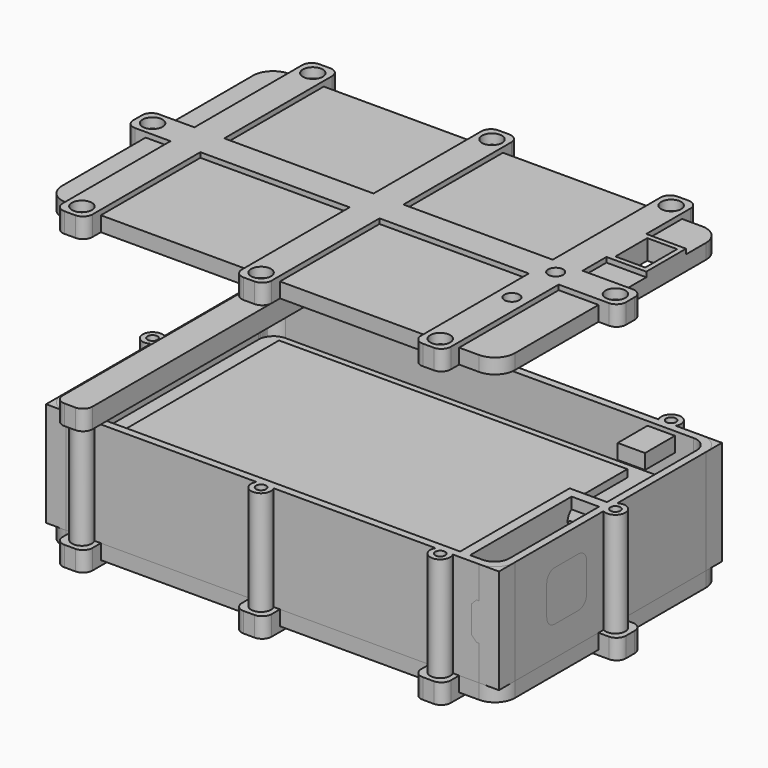
from build123d import *

# Parameters (mm, degrees)
BOX_W                     = 70
BOX_H                     = 47
BOX_DEPTH                 = 1.5
BOX003_W                  = 80
BOX003_H                  = 50
BOX003_DEPTH              = 8.5
BOX005_W                  = 88
BOX005_H                  = 53
BOX005_DEPTH              = 21
BOX004_W                  = 91
BOX004_H                  = 56
BOX004_DEPTH              = 21
FILLET002_R               = 3
FILLET001_R               = 3
FILLET003_R               = 3
BOX009_W                  = 70
BOX009_H                  = 41
BOX009_DEPTH              = 2
FILLET_R                  = 10
BOX008_W                  = 81
BOX008_H                  = 53
BOX008_DEPTH              = 2
FILLET008_R               = 2.3
FILLET004_R               = 3
FILLET005_R               = 3
FILLET006_R               = 3
FILLET007_R               = 4
FILLET010_R               = 4
BOX011_W                  = 1.5
BOX011_H                  = 10
BOX011_DEPTH              = 10
FILLET015_R               = 2
CYLINDER004_R             = 1
CYLINDER004_DEPTH         = 21
CYLINDER003_R             = 2
CYLINDER003_DEPTH         = 21
ARRAY_X_COUNT             = 3
ARRAY_X_PITCH             = 36
CYLINDER005_R             = 1
CYLINDER005_DEPTH         = 21
CYLINDER006_R             = 2
CYLINDER006_DEPTH         = 21
ARRAY001_X_COUNT          = 3
ARRAY001_X_PITCH          = 36
CYLINDER007_R             = 1
CYLINDER007_DEPTH         = 21
CYLINDER008_R             = 2
CYLINDER008_DEPTH         = 21
ARRAY002_X_COUNT          = 2
ARRAY002_X_PITCH          = 93
CYLINDER002_R             = 2
CYLINDER002_DEPTH         = 10
BOX010_W                  = 1.5
BOX010_H                  = 10
BOX010_DEPTH              = 10
FILLET014_R               = 2
BOX007_W                  = 8
BOX007_H                  = 2
BOX007_DEPTH              = 21
CYLINDER001_R             = 1.75
CYLINDER001_DEPTH         = 10
CYLINDER_R                = 2.5
CYLINDER_DEPTH            = 10
BOX002_W                  = 7.5
BOX002_H                  = 11
BOX002_DEPTH              = 2.5
CHAMFER_SIZE              = 1
BOX001_W                  = 17
BOX001_H                  = 22
BOX001_DEPTH              = 1.5
FUSION_PLACEMENT_ANGLE    = 90
FILLET011_R               = 4
FILLET012_R               = 4
FILLET013_R               = 4
FILLET009_R               = 4
BOX006_W                  = 2
BOX006_H                  = 26
BOX006_DEPTH              = 21
BOX013_W                  = 6
BOX013_H                  = 64
BOX013_DEPTH              = 4
FILLET017_R               = 1.9
CYLINDER030_R             = 2
CYLINDER030_DEPTH         = 2
CYLINDER034_R             = 1
CYLINDER034_DEPTH         = 10
CYLINDER032_R             = 2
CYLINDER032_DEPTH         = 2
CYLINDER033_R             = 1
CYLINDER033_DEPTH         = 10
CYLINDER035_R             = 2
CYLINDER035_DEPTH         = 2
CYLINDER031_R             = 1
CYLINDER031_DEPTH         = 10
CYLINDER039_R             = 2
CYLINDER039_DEPTH         = 2
CYLINDER038_R             = 1
CYLINDER038_DEPTH         = 10
CYLINDER036_R             = 2
CYLINDER036_DEPTH         = 2
CYLINDER040_R             = 1
CYLINDER040_DEPTH         = 10
CYLINDER026_R             = 2
CYLINDER026_DEPTH         = 2
CYLINDER037_R             = 1
CYLINDER037_DEPTH         = 10
CYLINDER025_R             = 2
CYLINDER025_DEPTH         = 2
CYLINDER027_R             = 1
CYLINDER027_DEPTH         = 10
CYLINDER028_R             = 2
CYLINDER028_DEPTH         = 2
CYLINDER029_R             = 1
CYLINDER029_DEPTH         = 10
BOX021_W                  = 6
BOX021_H                  = 64
BOX021_DEPTH              = 4
FILLET029_R               = 1.9
FILLET032_R               = 1.9
BOX017_W                  = 6
BOX017_H                  = 64
BOX017_DEPTH              = 4
FILLET026_R               = 1.9
FILLET031_R               = 1.9
BOX018_W                  = 6
BOX018_H                  = 64
BOX018_DEPTH              = 4
FILLET030_R               = 1.9
FILLET027_R               = 1.9
BOX020_W                  = 6
BOX020_H                  = 99
BOX020_DEPTH              = 4
FILLET034_R               = 1.9
FILLET033_R               = 1.9
FILLET033_PLACEMENT_ANGLE = 90
BOX019_W                  = 91
BOX019_H                  = 56
BOX019_DEPTH              = 3
FILLET028_R               = 4
CUT018_PLACEMENT_ANGLE    = 180
BOX023_W                  = 6
BOX023_H                  = 8
BOX023_DEPTH              = 4
CYLINDER042_R             = 1.5
CYLINDER042_DEPTH         = 10
CYLINDER041_R             = 1.5
CYLINDER041_DEPTH         = 10
CYLINDER010_R             = 2
CYLINDER010_DEPTH         = 2
CYLINDER009_R             = 1
CYLINDER009_DEPTH         = 10
CYLINDER011_R             = 2
CYLINDER011_DEPTH         = 2
CYLINDER012_R             = 1
CYLINDER012_DEPTH         = 10
CYLINDER013_R             = 2
CYLINDER013_DEPTH         = 2
CYLINDER014_R             = 1
CYLINDER014_DEPTH         = 10
CYLINDER017_R             = 2
CYLINDER017_DEPTH         = 2
CYLINDER018_R             = 1
CYLINDER018_DEPTH         = 10
CYLINDER015_R             = 2
CYLINDER015_DEPTH         = 2
CYLINDER019_R             = 1
CYLINDER019_DEPTH         = 10
CYLINDER020_R             = 2
CYLINDER020_DEPTH         = 2
CYLINDER016_R             = 1
CYLINDER016_DEPTH         = 10
CYLINDER021_R             = 2
CYLINDER021_DEPTH         = 2
CYLINDER022_R             = 1
CYLINDER022_DEPTH         = 10
CYLINDER023_R             = 2
CYLINDER023_DEPTH         = 2
CYLINDER024_R             = 1
CYLINDER024_DEPTH         = 10
BOX015_W                  = 6
BOX015_H                  = 64
BOX015_DEPTH              = 4
FILLET022_R               = 1.9
FILLET023_R               = 1.9
BOX014_W                  = 6
BOX014_H                  = 64
BOX014_DEPTH              = 4
FILLET021_R               = 1.9
FILLET020_R               = 1.9
FILLET018_R               = 1.9
FILLET019_R               = 1.9
BOX016_W                  = 6
BOX016_H                  = 99
BOX016_DEPTH              = 4
FILLET024_R               = 1.9
FILLET025_R               = 1.9
FILLET025_PLACEMENT_ANGLE = 90
BOX012_W                  = 91
BOX012_H                  = 56
BOX012_DEPTH              = 3
FILLET016_R               = 4
BOX022_W                  = 8
BOX022_H                  = 10
BOX022_DEPTH              = 4
BOX025_W                  = 3.2
BOX025_H                  = 3.2
BOX025_DEPTH              = 3
BOX024_W                  = 5.5
BOX024_H                  = 7.5
BOX024_DEPTH              = 3


with BuildPart() as box:
    # Box → Box (new body)
    with BuildSketch(Plane(origin=(4, 2, 0), x_dir=(1, 0, 0), z_dir=(0, 0, 1))):
        with Locations((35, 23.5)):
            Rectangle(BOX_W, BOX_H)
    extrude(amount=BOX_DEPTH)


with BuildPart() as box003:
    # Box003 → Box003 (new body)
    with BuildSketch(Plane(origin=(0, 1, -11), x_dir=(1, 0, 0), z_dir=(0, 0, 1))):
        with Locations((40, 25)):
            Rectangle(BOX003_W, BOX003_H)
    extrude(amount=BOX003_DEPTH)


with BuildPart() as box005:
    # Box005 → Box005 (new body)
    with BuildSketch(Plane(origin=(-0.5, -0.5, -12), x_dir=(1, 0, 0), z_dir=(0, 0, 1))):
        with Locations((44, 26.5)):
            Rectangle(BOX005_W, BOX005_H)
    extrude(amount=BOX005_DEPTH)


with BuildPart() as cut:
    # Box004 → Box004 (new body)
    with BuildSketch(Plane(origin=(-2, -2, -12), x_dir=(1, 0, 0), z_dir=(0, 0, 1))):
        with Locations((45.5, 28)):
            Rectangle(BOX004_W, BOX004_H)
    extrude(amount=BOX004_DEPTH)

    # Cut: cut Box005
    add(box005.part, mode=Mode.SUBTRACT)


with BuildPart() as fillet002:
    # Fillet002 base: copy of Cut
    add(cut.part)

    # Fillet002
    fillet002_edges = [fillet002.edges().sort_by_distance(p)[0] for p in [
        (87.5, -0.5, -1.5),
    ]]
    fillet(fillet002_edges, radius=FILLET002_R)


with BuildPart() as fillet001:
    # Fillet001 base: copy of Cut
    add(cut.part)

    # Fillet001
    fillet001_edges = [fillet001.edges().sort_by_distance(p)[0] for p in [
        (87.5, -0.5, -1.5),
    ]]
    fillet(fillet001_edges, radius=FILLET001_R)


with BuildPart() as fillet003:
    # Fillet003 base: copy of Fillet001
    add(fillet001.part)

    # Fillet003
    fillet003_edges = [fillet003.edges().sort_by_distance(p)[0] for p in [
        (87.5, 52.5, -1.5),
    ]]
    fillet(fillet003_edges, radius=FILLET003_R)


with BuildPart() as fillet_body:
    # Box009 → Box009 (new body)
    with BuildSketch(Plane(origin=(4, 5, -2), x_dir=(1, 0, 0), z_dir=(0, 0, 1))):
        with Locations((35, 20.5)):
            Rectangle(BOX009_W, BOX009_H)
    extrude(amount=BOX009_DEPTH)

    # Fillet
    fillet_edges = [fillet_body.edges().sort_by_distance(p)[0] for p in [
        (4, 5, -1),
        (4, 46, -1),
        (74, 5, -1),
        (74, 46, -1),
    ]]
    fillet(fillet_edges, radius=FILLET_R)


with BuildPart() as cut001:
    # Box008 → Box008 (new body)
    with BuildSketch(Plane(origin=(-1, 0, -2), x_dir=(1, 0, 0), z_dir=(0, 0, 1))):
        with Locations((40.5, 26.5)):
            Rectangle(BOX008_W, BOX008_H)
    extrude(amount=BOX008_DEPTH)

    # Cut001: cut Fillet body
    add(fillet_body.part, mode=Mode.SUBTRACT)


with BuildPart() as fillet008:
    # Fillet008 base: copy of Cut001
    add(cut001.part)

    # Fillet008
    fillet008_edges = [fillet008.edges().sort_by_distance(p)[0] for p in [
        (-1, 53, -1),
    ]]
    fillet(fillet008_edges, radius=FILLET008_R)


with BuildPart() as fillet007:
    # Fillet004 base: copy of Fillet001
    add(fillet001.part)

    # Fillet004
    fillet004_edges = [fillet007.edges().sort_by_distance(p)[0] for p in [
        (87.5, 52.5, -1.5),
    ]]
    fillet(fillet004_edges, radius=FILLET004_R)

    # Fillet005
    fillet005_edges = [fillet007.edges().sort_by_distance(p)[0] for p in [
        (-0.5, -0.5, -1.5),
    ]]
    fillet(fillet005_edges, radius=FILLET005_R)

    # Fillet006
    fillet006_edges = [fillet007.edges().sort_by_distance(p)[0] for p in [
        (-0.5, 52.5, -1.5),
    ]]
    fillet(fillet006_edges, radius=FILLET006_R)

    # Fillet007
    fillet007_edges = [fillet007.edges().sort_by_distance(p)[0] for p in [
        (-2, 54, -1.5),
    ]]
    fillet(fillet007_edges, radius=FILLET007_R)


with BuildPart() as fillet010:
    # Fillet010 base: copy of Fillet007
    add(fillet007.part)

    # Fillet010
    fillet010_edges = [fillet010.edges().sort_by_distance(p)[0] for p in [
        (-2, -2, -1.5),
    ]]
    fillet(fillet010_edges, radius=FILLET010_R)


with BuildPart() as fillet015:
    # Box011 → Box011 (new body)
    with BuildSketch(Plane(origin=(87.5, 10, -6), x_dir=(1, 0, 0), z_dir=(0, 0, 1))):
        with Locations((0.75, 5)):
            Rectangle(BOX011_W, BOX011_H)
    extrude(amount=BOX011_DEPTH)

    # Fillet015
    fillet015_edges = [fillet015.edges().sort_by_distance(p)[0] for p in [
        (88.25, 10, -6),
        (88.25, 10, 4),
        (88.25, 20, -6),
        (88.25, 20, 4),
    ]]
    fillet(fillet015_edges, radius=FILLET015_R)


with BuildPart() as cylinder004:
    # Cylinder004 → Cylinder004 (new body)
    with BuildSketch(Plane(origin=(6, -3, -12), x_dir=(1, 0, 0), z_dir=(0, 0, 1))):
        Circle(CYLINDER004_R)
    extrude(amount=CYLINDER004_DEPTH)


with BuildPart() as array:
    # Cylinder003 → Cylinder003 (new body)
    with BuildSketch(Plane(origin=(6, -3, -12), x_dir=(1, 0, 0), z_dir=(0, 0, 1))):
        Circle(CYLINDER003_R)
    extrude(amount=CYLINDER003_DEPTH)

    # Cut007: cut Cylinder004
    add(cylinder004.part, mode=Mode.SUBTRACT)

    # Array X: Array ×3


with BuildPart() as array_1:
    add(array.part)
    with Locations(*[(i * ARRAY_X_PITCH, 0, 0) for i in range(1, ARRAY_X_COUNT)]):
        add(array.part)


with BuildPart() as cylinder005:
    # Cylinder005 → Cylinder005 (new body)
    with BuildSketch(Plane(origin=(6, -3, -12), x_dir=(1, 0, 0), z_dir=(0, 0, 1))):
        Circle(CYLINDER005_R)
    extrude(amount=CYLINDER005_DEPTH)


with BuildPart() as array001:
    # Cylinder006 → Cylinder006 (new body)
    with BuildSketch(Plane(origin=(6, -3, -12), x_dir=(1, 0, 0), z_dir=(0, 0, 1))):
        Circle(CYLINDER006_R)
    extrude(amount=CYLINDER006_DEPTH)

    # Cut008: cut Cylinder005
    add(cylinder005.part, mode=Mode.SUBTRACT)

    # Array001 X: Array001 ×3


with BuildPart() as array001_1:
    add(array001.part)
    with Locations(*[(i * ARRAY001_X_PITCH, 0, 0) for i in range(1, ARRAY001_X_COUNT)]):
        add(array001.part)


with BuildPart() as array001_2:
    # Array001 placement: moved
    add(array001_1.part.moved(Location((0, 58, 0))))


with BuildPart() as cylinder007:
    # Cylinder007 → Cylinder007 (new body)
    with BuildSketch(Plane(origin=(6, -3, -12), x_dir=(1, 0, 0), z_dir=(0, 0, 1))):
        Circle(CYLINDER007_R)
    extrude(amount=CYLINDER007_DEPTH)


with BuildPart() as array002:
    # Cylinder008 → Cylinder008 (new body)
    with BuildSketch(Plane(origin=(6, -3, -12), x_dir=(1, 0, 0), z_dir=(0, 0, 1))):
        Circle(CYLINDER008_R)
    extrude(amount=CYLINDER008_DEPTH)

    # Cut009: cut Cylinder007
    add(cylinder007.part, mode=Mode.SUBTRACT)


with BuildPart() as array002_1:
    # Cut009 placement: moved
    add(array002.part.moved(Location((-9, 29, 0))))

    # Array002 X: Array002 ×2


with BuildPart() as array002_2:
    add(array002_1.part)
    with Locations(*[(i * ARRAY002_X_PITCH, 0, 0) for i in range(1, ARRAY002_X_COUNT)]):
        add(array002_1.part)


with BuildPart() as cylinder002:
    # Cylinder002 → Cylinder002 (new body)
    with BuildSketch(Plane(origin=(76, 26, 5), x_dir=(0, 0, -1), z_dir=(1, 0, 0))):
        Circle(CYLINDER002_R)
    extrude(amount=CYLINDER002_DEPTH)


with BuildPart() as fillet014:
    # Box010 → Box010 (new body)
    with BuildSketch(Plane(origin=(87.5, 10, -6), x_dir=(1, 0, 0), z_dir=(0, 0, 1))):
        with Locations((0.75, 5)):
            Rectangle(BOX010_W, BOX010_H)
    extrude(amount=BOX010_DEPTH)

    # Fillet014
    fillet014_edges = [fillet014.edges().sort_by_distance(p)[0] for p in [
        (88.25, 10, -6),
        (88.25, 10, 4),
        (88.25, 20, -6),
        (88.25, 20, 4),
    ]]
    fillet(fillet014_edges, radius=FILLET014_R)


with BuildPart() as box007:
    # Box007 → Box007 (new body)
    with BuildSketch(Plane(origin=(80, 25, -12), x_dir=(1, 0, 0), z_dir=(0, 0, 1))):
        with Locations((4, 1)):
            Rectangle(BOX007_W, BOX007_H)
    extrude(amount=BOX007_DEPTH)


with BuildPart() as cylinder001:
    # Cylinder001 → Cylinder001 (new body)
    with BuildSketch(Plane(origin=(-4, 34, 6), x_dir=(0, 0, -1), z_dir=(1, 0, 0))):
        Circle(CYLINDER001_R)
    extrude(amount=CYLINDER001_DEPTH)


with BuildPart() as cylinder:
    # Cylinder → Cylinder (new body)
    with BuildSketch(Plane(origin=(-6, 42, 7), x_dir=(0, 0, -1), z_dir=(1, 0, 0))):
        Circle(CYLINDER_R)
    extrude(amount=CYLINDER_DEPTH)


with BuildPart() as chamfer_body:
    # Box002 → Box002 (new body)
    with BuildSketch(Plane(origin=(4.5, -4, 1.5), x_dir=(1, 0, 0), z_dir=(0, 0, 1))):
        with Locations((3.75, 5.5)):
            Rectangle(BOX002_W, BOX002_H)
    extrude(amount=BOX002_DEPTH)

    # Chamfer
    chamfer_edges = [chamfer_body.edges().sort_by_distance(p)[0] for p in [
        (4.5, 1.5, 1.5),
        (12, 1.5, 1.5),
    ]]
    chamfer(chamfer_edges, length=CHAMFER_SIZE)


with BuildPart() as fusion:
    # Box001 → Box001 (new body)
    with BuildSketch(Plane.XY):
        with Locations((8.5, 11)):
            Rectangle(BOX001_W, BOX001_H)
    extrude(amount=BOX001_DEPTH)

    # Fusion: union Chamfer body
    add(chamfer_body.part)


with BuildPart() as fusion_1:
    # Fusion placement: moved
    add(fusion.part.moved(Location((82, 1, 7))).rotate(Axis((82, 1, 7), (0, 1, 0)), FUSION_PLACEMENT_ANGLE))


with BuildPart() as cut004:
    # Fillet011 base: copy of Fillet007
    add(fillet007.part)

    # Fillet011
    fillet011_edges = [cut004.edges().sort_by_distance(p)[0] for p in [
        (-2, -2, -1.5),
    ]]
    fillet(fillet011_edges, radius=FILLET011_R)

    # Fillet012
    fillet012_edges = [cut004.edges().sort_by_distance(p)[0] for p in [
        (89, -2, -1.5),
    ]]
    fillet(fillet012_edges, radius=FILLET012_R)

    # Fillet013
    fillet013_edges = [cut004.edges().sort_by_distance(p)[0] for p in [
        (89, 54, -1.5),
    ]]
    fillet(fillet013_edges, radius=FILLET013_R)

    # Cut002: cut Fusion
    add(fusion_1.part, mode=Mode.SUBTRACT)

    # Cut003: cut Cylinder
    add(cylinder.part, mode=Mode.SUBTRACT)

    # Cut004: cut Cylinder001
    add(cylinder001.part, mode=Mode.SUBTRACT)


with BuildPart() as fillet009:
    # Fillet009 base: copy of Cut001
    add(cut001.part)

    # Fillet009
    fillet009_edges = [fillet009.edges().sort_by_distance(p)[0] for p in [
        (-1, 53, -1),
    ]]
    fillet(fillet009_edges, radius=FILLET009_R)


with BuildPart() as fillet009_1:
    # Fillet009 placement: moved
    add(fillet009.part.moved(Location((0, -0.5, 0))))


with BuildPart() as fusion002:
    # Box006 → Box006 (new body)
    with BuildSketch(Plane(origin=(80, -1, -12), x_dir=(1, 0, 0), z_dir=(0, 0, 1))):
        with Locations((1, 13)):
            Rectangle(BOX006_W, BOX006_H)
    extrude(amount=BOX006_DEPTH)

    # Fusion001: union Box007, Cut004, Fillet009
    add(box007.part)
    add(cut004.part)
    add(fillet009_1.part)

    # Cut005: cut Fillet014
    add(fillet014.part, mode=Mode.SUBTRACT)

    # Cut006: cut Cylinder002
    add(cylinder002.part, mode=Mode.SUBTRACT)

    # Fusion002: union Array, Array001, Array002
    add(array_1.part)
    add(array001_2.part)
    add(array002_2.part)


with BuildPart() as box013:
    # Box013 → Box013 (new body)
    with BuildSketch(Plane(origin=(3, -6, 9), x_dir=(1, 0, 0), z_dir=(0, 0, 1))):
        with Locations((3, 32)):
            Rectangle(BOX013_W, BOX013_H)
    extrude(amount=BOX013_DEPTH)


with BuildPart() as fillet017:
    # Fillet017 base: copy of Box013
    add(box013.part)

    # Fillet017
    fillet017_edges = [fillet017.edges().sort_by_distance(p)[0] for p in [
        (3, -6, 11),
        (9, -6, 11),
    ]]
    fillet(fillet017_edges, radius=FILLET017_R)


with BuildPart() as cylinder030:
    # Cylinder030 → Cylinder030 (new body)
    with BuildSketch(Plane(origin=(6, -3, 11), x_dir=(1, 0, 0), z_dir=(0, 0, 1))):
        Circle(CYLINDER030_R)
    extrude(amount=CYLINDER030_DEPTH)


with BuildPart() as fusion019:
    # Cylinder034 → Cylinder034 (new body)
    with BuildSketch(Plane(origin=(6, -3, 5), x_dir=(1, 0, 0), z_dir=(0, 0, 1))):
        Circle(CYLINDER034_R)
    extrude(amount=CYLINDER034_DEPTH)

    # Fusion019: union Cylinder030
    add(cylinder030.part)


with BuildPart() as cylinder032:
    # Cylinder032 → Cylinder032 (new body)
    with BuildSketch(Plane(origin=(6, -3, 11), x_dir=(1, 0, 0), z_dir=(0, 0, 1))):
        Circle(CYLINDER032_R)
    extrude(amount=CYLINDER032_DEPTH)


with BuildPart() as fusion018:
    # Cylinder033 → Cylinder033 (new body)
    with BuildSketch(Plane(origin=(6, -3, 5), x_dir=(1, 0, 0), z_dir=(0, 0, 1))):
        Circle(CYLINDER033_R)
    extrude(amount=CYLINDER033_DEPTH)

    # Fusion018: union Cylinder032
    add(cylinder032.part)


with BuildPart() as fusion018_1:
    # Fusion018 placement: moved
    add(fusion018.part.moved(Location((36, 0, 0))))


with BuildPart() as cylinder035:
    # Cylinder035 → Cylinder035 (new body)
    with BuildSketch(Plane(origin=(6, -3, 11), x_dir=(1, 0, 0), z_dir=(0, 0, 1))):
        Circle(CYLINDER035_R)
    extrude(amount=CYLINDER035_DEPTH)


with BuildPart() as fusion022:
    # Cylinder031 → Cylinder031 (new body)
    with BuildSketch(Plane(origin=(6, -3, 5), x_dir=(1, 0, 0), z_dir=(0, 0, 1))):
        Circle(CYLINDER031_R)
    extrude(amount=CYLINDER031_DEPTH)

    # Fusion022: union Cylinder035
    add(cylinder035.part)


with BuildPart() as fusion022_1:
    # Fusion022 placement: moved
    add(fusion022.part.moved(Location((72, 0, 0))))


with BuildPart() as cylinder039:
    # Cylinder039 → Cylinder039 (new body)
    with BuildSketch(Plane(origin=(6, -3, 11), x_dir=(1, 0, 0), z_dir=(0, 0, 1))):
        Circle(CYLINDER039_R)
    extrude(amount=CYLINDER039_DEPTH)


with BuildPart() as fusion020:
    # Cylinder038 → Cylinder038 (new body)
    with BuildSketch(Plane(origin=(6, -3, 5), x_dir=(1, 0, 0), z_dir=(0, 0, 1))):
        Circle(CYLINDER038_R)
    extrude(amount=CYLINDER038_DEPTH)

    # Fusion020: union Cylinder039
    add(cylinder039.part)


with BuildPart() as fusion020_1:
    # Fusion020 placement: moved
    add(fusion020.part.moved(Location((36, 58, 0))))


with BuildPart() as cylinder036:
    # Cylinder036 → Cylinder036 (new body)
    with BuildSketch(Plane(origin=(6, -3, 11), x_dir=(1, 0, 0), z_dir=(0, 0, 1))):
        Circle(CYLINDER036_R)
    extrude(amount=CYLINDER036_DEPTH)


with BuildPart() as fusion021:
    # Cylinder040 → Cylinder040 (new body)
    with BuildSketch(Plane(origin=(6, -3, 5), x_dir=(1, 0, 0), z_dir=(0, 0, 1))):
        Circle(CYLINDER040_R)
    extrude(amount=CYLINDER040_DEPTH)

    # Fusion021: union Cylinder036
    add(cylinder036.part)


with BuildPart() as fusion021_1:
    # Fusion021 placement: moved
    add(fusion021.part.moved(Location((0, 58, 0))))


with BuildPart() as cylinder026:
    # Cylinder026 → Cylinder026 (new body)
    with BuildSketch(Plane(origin=(6, -3, 11), x_dir=(1, 0, 0), z_dir=(0, 0, 1))):
        Circle(CYLINDER026_R)
    extrude(amount=CYLINDER026_DEPTH)


with BuildPart() as fusion015:
    # Cylinder037 → Cylinder037 (new body)
    with BuildSketch(Plane(origin=(6, -3, 5), x_dir=(1, 0, 0), z_dir=(0, 0, 1))):
        Circle(CYLINDER037_R)
    extrude(amount=CYLINDER037_DEPTH)

    # Fusion015: union Cylinder026
    add(cylinder026.part)


with BuildPart() as fusion015_1:
    # Fusion015 placement: moved
    add(fusion015.part.moved(Location((72, 58, 0))))


with BuildPart() as cylinder025:
    # Cylinder025 → Cylinder025 (new body)
    with BuildSketch(Plane(origin=(6, -3, 11), x_dir=(1, 0, 0), z_dir=(0, 0, 1))):
        Circle(CYLINDER025_R)
    extrude(amount=CYLINDER025_DEPTH)


with BuildPart() as fusion017:
    # Cylinder027 → Cylinder027 (new body)
    with BuildSketch(Plane(origin=(6, -3, 5), x_dir=(1, 0, 0), z_dir=(0, 0, 1))):
        Circle(CYLINDER027_R)
    extrude(amount=CYLINDER027_DEPTH)

    # Fusion017: union Cylinder025
    add(cylinder025.part)


with BuildPart() as fusion017_1:
    # Fusion017 placement: moved
    add(fusion017.part.moved(Location((84, 29, 0))))


with BuildPart() as cylinder028:
    # Cylinder028 → Cylinder028 (new body)
    with BuildSketch(Plane(origin=(6, -3, 11), x_dir=(1, 0, 0), z_dir=(0, 0, 1))):
        Circle(CYLINDER028_R)
    extrude(amount=CYLINDER028_DEPTH)


with BuildPart() as fusion014:
    # Cylinder029 → Cylinder029 (new body)
    with BuildSketch(Plane(origin=(6, -3, 5), x_dir=(1, 0, 0), z_dir=(0, 0, 1))):
        Circle(CYLINDER029_R)
    extrude(amount=CYLINDER029_DEPTH)

    # Fusion014: union Cylinder028
    add(cylinder028.part)


with BuildPart() as fusion014_1:
    # Fusion014 placement: moved
    add(fusion014.part.moved(Location((-9, 29, 0))))


with BuildPart() as fillet032:
    # Box021 → Box021 (new body)
    with BuildSketch(Plane(origin=(3, -6, 9), x_dir=(1, 0, 0), z_dir=(0, 0, 1))):
        with Locations((3, 32)):
            Rectangle(BOX021_W, BOX021_H)
    extrude(amount=BOX021_DEPTH)

    # Fillet029
    fillet029_edges = [fillet032.edges().sort_by_distance(p)[0] for p in [
        (3, -6, 11),
        (9, -6, 11),
    ]]
    fillet(fillet029_edges, radius=FILLET029_R)

    # Fillet032
    fillet032_edges = [fillet032.edges().sort_by_distance(p)[0] for p in [
        (3, 58, 11),
        (9, 58, 11),
    ]]
    fillet(fillet032_edges, radius=FILLET032_R)


with BuildPart() as fillet032_1:
    # Fillet032 placement: moved
    add(fillet032.part.moved(Location((72, 0, 0))))


with BuildPart() as fillet031:
    # Box017 → Box017 (new body)
    with BuildSketch(Plane(origin=(3, -6, 9), x_dir=(1, 0, 0), z_dir=(0, 0, 1))):
        with Locations((3, 32)):
            Rectangle(BOX017_W, BOX017_H)
    extrude(amount=BOX017_DEPTH)

    # Fillet026
    fillet026_edges = [fillet031.edges().sort_by_distance(p)[0] for p in [
        (3, -6, 11),
        (9, -6, 11),
    ]]
    fillet(fillet026_edges, radius=FILLET026_R)

    # Fillet031
    fillet031_edges = [fillet031.edges().sort_by_distance(p)[0] for p in [
        (3, 58, 11),
        (9, 58, 11),
    ]]
    fillet(fillet031_edges, radius=FILLET031_R)


with BuildPart() as fillet031_1:
    # Fillet031 placement: moved
    add(fillet031.part.moved(Location((36, 0, 0))))


with BuildPart() as fillet027:
    # Box018 → Box018 (new body)
    with BuildSketch(Plane(origin=(3, -6, 9), x_dir=(1, 0, 0), z_dir=(0, 0, 1))):
        with Locations((3, 32)):
            Rectangle(BOX018_W, BOX018_H)
    extrude(amount=BOX018_DEPTH)

    # Fillet030
    fillet030_edges = [fillet027.edges().sort_by_distance(p)[0] for p in [
        (3, -6, 11),
        (9, -6, 11),
    ]]
    fillet(fillet030_edges, radius=FILLET030_R)

    # Fillet027
    fillet027_edges = [fillet027.edges().sort_by_distance(p)[0] for p in [
        (3, 58, 11),
        (9, 58, 11),
    ]]
    fillet(fillet027_edges, radius=FILLET027_R)


with BuildPart() as fusion016:
    # Box020 → Box020 (new body)
    with BuildSketch(Plane(origin=(3, -6, 9), x_dir=(1, 0, 0), z_dir=(0, 0, 1))):
        with Locations((3, 49.5)):
            Rectangle(BOX020_W, BOX020_H)
    extrude(amount=BOX020_DEPTH)

    # Fillet034
    fillet034_edges = [fusion016.edges().sort_by_distance(p)[0] for p in [
        (3, -6, 11),
        (9, -6, 11),
    ]]
    fillet(fillet034_edges, radius=FILLET034_R)

    # Fillet033
    fillet033_edges = [fusion016.edges().sort_by_distance(p)[0] for p in [
        (3, 93, 11),
        (9, 93, 11),
    ]]
    fillet(fillet033_edges, radius=FILLET033_R)


with BuildPart() as fusion016_1:
    # Fillet033 placement: moved
    add(fusion016.part.moved(Location((87, 20, 0))).rotate(Axis((87, 20, 0), (0, 0, 1)), FILLET033_PLACEMENT_ANGLE))

    # Fusion016: union Fillet032, Fillet031, Fillet027
    add(fillet032_1.part)
    add(fillet031_1.part)
    add(fillet027.part)


with BuildPart() as cut018:
    # Box019 → Box019 (new body)
    with BuildSketch(Plane(origin=(-2, -2, 9), x_dir=(1, 0, 0), z_dir=(0, 0, 1))):
        with Locations((45.5, 28)):
            Rectangle(BOX019_W, BOX019_H)
    extrude(amount=BOX019_DEPTH)

    # Fillet028
    fillet028_edges = [cut018.edges().sort_by_distance(p)[0] for p in [
        (-2, -2, 10.5),
        (-2, 54, 10.5),
        (89, -2, 10.5),
        (89, 54, 10.5),
    ]]
    fillet(fillet028_edges, radius=FILLET028_R)

    # Fusion013: union Fusion016
    add(fusion016_1.part)

    # Cut020: cut Fusion014
    add(fusion014_1.part, mode=Mode.SUBTRACT)

    # Cut025: cut Fusion017
    add(fusion017_1.part, mode=Mode.SUBTRACT)

    # Cut022: cut Fusion015
    add(fusion015_1.part, mode=Mode.SUBTRACT)

    # Cut019: cut Fusion021
    add(fusion021_1.part, mode=Mode.SUBTRACT)

    # Cut024: cut Fusion020
    add(fusion020_1.part, mode=Mode.SUBTRACT)

    # Cut023: cut Fusion022
    add(fusion022_1.part, mode=Mode.SUBTRACT)

    # Cut021: cut Fusion018
    add(fusion018_1.part, mode=Mode.SUBTRACT)

    # Cut018: cut Fusion019
    add(fusion019.part, mode=Mode.SUBTRACT)


with BuildPart() as cut018_1:
    # Cut018 placement: moved
    add(cut018.part.moved(Location((0, 52, -3))).rotate(Axis((0, 52, -3), (1, 0, 0)), CUT018_PLACEMENT_ANGLE))


with BuildPart() as box023:
    # Box023 → Box023 (new body)
    with BuildSketch(Plane(origin=(82, 36, 9), x_dir=(1, 0, 0), z_dir=(0, 0, 1))):
        with Locations((3, 4)):
            Rectangle(BOX023_W, BOX023_H)
    extrude(amount=BOX023_DEPTH)


with BuildPart() as cylinder042:
    # Cylinder042 → Cylinder042 (new body)
    with BuildSketch(Plane(origin=(78, 26, 3), x_dir=(1, 0, 0), z_dir=(0, 0, 1))):
        Circle(CYLINDER042_R)
    extrude(amount=CYLINDER042_DEPTH)


with BuildPart() as cylinder041:
    # Cylinder041 → Cylinder041 (new body)
    with BuildSketch(Plane(origin=(78, 15, 3), x_dir=(1, 0, 0), z_dir=(0, 0, 1))):
        Circle(CYLINDER041_R)
    extrude(amount=CYLINDER041_DEPTH)


with BuildPart() as cylinder010:
    # Cylinder010 → Cylinder010 (new body)
    with BuildSketch(Plane(origin=(6, -3, 11), x_dir=(1, 0, 0), z_dir=(0, 0, 1))):
        Circle(CYLINDER010_R)
    extrude(amount=CYLINDER010_DEPTH)


with BuildPart() as fusion003:
    # Cylinder009 → Cylinder009 (new body)
    with BuildSketch(Plane(origin=(6, -3, 5), x_dir=(1, 0, 0), z_dir=(0, 0, 1))):
        Circle(CYLINDER009_R)
    extrude(amount=CYLINDER009_DEPTH)

    # Fusion003: union Cylinder010
    add(cylinder010.part)


with BuildPart() as cylinder011:
    # Cylinder011 → Cylinder011 (new body)
    with BuildSketch(Plane(origin=(6, -3, 11), x_dir=(1, 0, 0), z_dir=(0, 0, 1))):
        Circle(CYLINDER011_R)
    extrude(amount=CYLINDER011_DEPTH)


with BuildPart() as fusion004:
    # Cylinder012 → Cylinder012 (new body)
    with BuildSketch(Plane(origin=(6, -3, 5), x_dir=(1, 0, 0), z_dir=(0, 0, 1))):
        Circle(CYLINDER012_R)
    extrude(amount=CYLINDER012_DEPTH)

    # Fusion004: union Cylinder011
    add(cylinder011.part)


with BuildPart() as fusion004_1:
    # Fusion004 placement: moved
    add(fusion004.part.moved(Location((36, 0, 0))))


with BuildPart() as cylinder013:
    # Cylinder013 → Cylinder013 (new body)
    with BuildSketch(Plane(origin=(6, -3, 11), x_dir=(1, 0, 0), z_dir=(0, 0, 1))):
        Circle(CYLINDER013_R)
    extrude(amount=CYLINDER013_DEPTH)


with BuildPart() as fusion005:
    # Cylinder014 → Cylinder014 (new body)
    with BuildSketch(Plane(origin=(6, -3, 5), x_dir=(1, 0, 0), z_dir=(0, 0, 1))):
        Circle(CYLINDER014_R)
    extrude(amount=CYLINDER014_DEPTH)

    # Fusion005: union Cylinder013
    add(cylinder013.part)


with BuildPart() as fusion005_1:
    # Fusion005 placement: moved
    add(fusion005.part.moved(Location((72, 0, 0))))


with BuildPart() as cylinder017:
    # Cylinder017 → Cylinder017 (new body)
    with BuildSketch(Plane(origin=(6, -3, 11), x_dir=(1, 0, 0), z_dir=(0, 0, 1))):
        Circle(CYLINDER017_R)
    extrude(amount=CYLINDER017_DEPTH)


with BuildPart() as fusion006:
    # Cylinder018 → Cylinder018 (new body)
    with BuildSketch(Plane(origin=(6, -3, 5), x_dir=(1, 0, 0), z_dir=(0, 0, 1))):
        Circle(CYLINDER018_R)
    extrude(amount=CYLINDER018_DEPTH)

    # Fusion006: union Cylinder017
    add(cylinder017.part)


with BuildPart() as fusion006_1:
    # Fusion006 placement: moved
    add(fusion006.part.moved(Location((36, 58, 0))))


with BuildPart() as cylinder015:
    # Cylinder015 → Cylinder015 (new body)
    with BuildSketch(Plane(origin=(6, -3, 11), x_dir=(1, 0, 0), z_dir=(0, 0, 1))):
        Circle(CYLINDER015_R)
    extrude(amount=CYLINDER015_DEPTH)


with BuildPart() as fusion007:
    # Cylinder019 → Cylinder019 (new body)
    with BuildSketch(Plane(origin=(6, -3, 5), x_dir=(1, 0, 0), z_dir=(0, 0, 1))):
        Circle(CYLINDER019_R)
    extrude(amount=CYLINDER019_DEPTH)

    # Fusion007: union Cylinder015
    add(cylinder015.part)


with BuildPart() as fusion007_1:
    # Fusion007 placement: moved
    add(fusion007.part.moved(Location((0, 58, 0))))


with BuildPart() as cylinder020:
    # Cylinder020 → Cylinder020 (new body)
    with BuildSketch(Plane(origin=(6, -3, 11), x_dir=(1, 0, 0), z_dir=(0, 0, 1))):
        Circle(CYLINDER020_R)
    extrude(amount=CYLINDER020_DEPTH)


with BuildPart() as fusion008:
    # Cylinder016 → Cylinder016 (new body)
    with BuildSketch(Plane(origin=(6, -3, 5), x_dir=(1, 0, 0), z_dir=(0, 0, 1))):
        Circle(CYLINDER016_R)
    extrude(amount=CYLINDER016_DEPTH)

    # Fusion008: union Cylinder020
    add(cylinder020.part)


with BuildPart() as fusion008_1:
    # Fusion008 placement: moved
    add(fusion008.part.moved(Location((72, 58, 0))))


with BuildPart() as cylinder021:
    # Cylinder021 → Cylinder021 (new body)
    with BuildSketch(Plane(origin=(6, -3, 11), x_dir=(1, 0, 0), z_dir=(0, 0, 1))):
        Circle(CYLINDER021_R)
    extrude(amount=CYLINDER021_DEPTH)


with BuildPart() as fusion009:
    # Cylinder022 → Cylinder022 (new body)
    with BuildSketch(Plane(origin=(6, -3, 5), x_dir=(1, 0, 0), z_dir=(0, 0, 1))):
        Circle(CYLINDER022_R)
    extrude(amount=CYLINDER022_DEPTH)

    # Fusion009: union Cylinder021
    add(cylinder021.part)


with BuildPart() as fusion009_1:
    # Fusion009 placement: moved
    add(fusion009.part.moved(Location((84, 29, 0))))


with BuildPart() as cylinder023:
    # Cylinder023 → Cylinder023 (new body)
    with BuildSketch(Plane(origin=(6, -3, 11), x_dir=(1, 0, 0), z_dir=(0, 0, 1))):
        Circle(CYLINDER023_R)
    extrude(amount=CYLINDER023_DEPTH)


with BuildPart() as fusion010:
    # Cylinder024 → Cylinder024 (new body)
    with BuildSketch(Plane(origin=(6, -3, 5), x_dir=(1, 0, 0), z_dir=(0, 0, 1))):
        Circle(CYLINDER024_R)
    extrude(amount=CYLINDER024_DEPTH)

    # Fusion010: union Cylinder023
    add(cylinder023.part)


with BuildPart() as fusion010_1:
    # Fusion010 placement: moved
    add(fusion010.part.moved(Location((-9, 29, 0))))


with BuildPart() as fillet023:
    # Box015 → Box015 (new body)
    with BuildSketch(Plane(origin=(3, -6, 9), x_dir=(1, 0, 0), z_dir=(0, 0, 1))):
        with Locations((3, 32)):
            Rectangle(BOX015_W, BOX015_H)
    extrude(amount=BOX015_DEPTH)

    # Fillet022
    fillet022_edges = [fillet023.edges().sort_by_distance(p)[0] for p in [
        (3, -6, 11),
        (9, -6, 11),
    ]]
    fillet(fillet022_edges, radius=FILLET022_R)

    # Fillet023
    fillet023_edges = [fillet023.edges().sort_by_distance(p)[0] for p in [
        (3, 58, 11),
        (9, 58, 11),
    ]]
    fillet(fillet023_edges, radius=FILLET023_R)


with BuildPart() as fillet023_1:
    # Fillet023 placement: moved
    add(fillet023.part.moved(Location((72, 0, 0))))


with BuildPart() as fillet020:
    # Box014 → Box014 (new body)
    with BuildSketch(Plane(origin=(3, -6, 9), x_dir=(1, 0, 0), z_dir=(0, 0, 1))):
        with Locations((3, 32)):
            Rectangle(BOX014_W, BOX014_H)
    extrude(amount=BOX014_DEPTH)

    # Fillet021
    fillet021_edges = [fillet020.edges().sort_by_distance(p)[0] for p in [
        (3, -6, 11),
        (9, -6, 11),
    ]]
    fillet(fillet021_edges, radius=FILLET021_R)

    # Fillet020
    fillet020_edges = [fillet020.edges().sort_by_distance(p)[0] for p in [
        (3, 58, 11),
        (9, 58, 11),
    ]]
    fillet(fillet020_edges, radius=FILLET020_R)


with BuildPart() as fillet020_1:
    # Fillet020 placement: moved
    add(fillet020.part.moved(Location((36, 0, 0))))


with BuildPart() as fillet019:
    # Fillet018 base: copy of Box013
    add(box013.part)

    # Fillet018
    fillet018_edges = [fillet019.edges().sort_by_distance(p)[0] for p in [
        (3, -6, 11),
        (9, -6, 11),
    ]]
    fillet(fillet018_edges, radius=FILLET018_R)

    # Fillet019
    fillet019_edges = [fillet019.edges().sort_by_distance(p)[0] for p in [
        (3, 58, 11),
        (9, 58, 11),
    ]]
    fillet(fillet019_edges, radius=FILLET019_R)


with BuildPart() as fusion011:
    # Box016 → Box016 (new body)
    with BuildSketch(Plane(origin=(3, -6, 9), x_dir=(1, 0, 0), z_dir=(0, 0, 1))):
        with Locations((3, 49.5)):
            Rectangle(BOX016_W, BOX016_H)
    extrude(amount=BOX016_DEPTH)

    # Fillet024
    fillet024_edges = [fusion011.edges().sort_by_distance(p)[0] for p in [
        (3, -6, 11),
        (9, -6, 11),
    ]]
    fillet(fillet024_edges, radius=FILLET024_R)

    # Fillet025
    fillet025_edges = [fusion011.edges().sort_by_distance(p)[0] for p in [
        (3, 93, 11),
        (9, 93, 11),
    ]]
    fillet(fillet025_edges, radius=FILLET025_R)


with BuildPart() as fusion011_1:
    # Fillet025 placement: moved
    add(fusion011.part.moved(Location((87, 20, 0))).rotate(Axis((87, 20, 0), (0, 0, 1)), FILLET025_PLACEMENT_ANGLE))

    # Fusion011: union Fillet023, Fillet020, Fillet019
    add(fillet023_1.part)
    add(fillet020_1.part)
    add(fillet019.part)


with BuildPart() as cut027:
    # Box012 → Box012 (new body)
    with BuildSketch(Plane(origin=(-2, -2, 9), x_dir=(1, 0, 0), z_dir=(0, 0, 1))):
        with Locations((45.5, 28)):
            Rectangle(BOX012_W, BOX012_H)
    extrude(amount=BOX012_DEPTH)

    # Fillet016
    fillet016_edges = [cut027.edges().sort_by_distance(p)[0] for p in [
        (-2, -2, 10.5),
        (-2, 54, 10.5),
        (89, -2, 10.5),
        (89, 54, 10.5),
    ]]
    fillet(fillet016_edges, radius=FILLET016_R)

    # Fusion012: union Fusion011
    add(fusion011_1.part)

    # Cut010: cut Fusion010
    add(fusion010_1.part, mode=Mode.SUBTRACT)

    # Cut011: cut Fusion009
    add(fusion009_1.part, mode=Mode.SUBTRACT)

    # Cut012: cut Fusion008
    add(fusion008_1.part, mode=Mode.SUBTRACT)

    # Cut013: cut Fusion007
    add(fusion007_1.part, mode=Mode.SUBTRACT)

    # Cut014: cut Fusion006
    add(fusion006_1.part, mode=Mode.SUBTRACT)

    # Cut015: cut Fusion005
    add(fusion005_1.part, mode=Mode.SUBTRACT)

    # Cut016: cut Fusion004
    add(fusion004_1.part, mode=Mode.SUBTRACT)

    # Cut017: cut Fusion003
    add(fusion003.part, mode=Mode.SUBTRACT)

    # Cut026: cut Cylinder041
    add(cylinder041.part, mode=Mode.SUBTRACT)

    # Cut027: cut Cylinder042
    add(cylinder042.part, mode=Mode.SUBTRACT)


with BuildPart() as cut028:
    # Box022 → Box022 (new body)
    with BuildSketch(Plane(origin=(81, 35, 9), x_dir=(1, 0, 0), z_dir=(0, 0, 1))):
        with Locations((4, 5)):
            Rectangle(BOX022_W, BOX022_H)
    extrude(amount=BOX022_DEPTH)

    # Fusion023: union Cut027
    add(cut027.part)

    # Cut028: cut Box023
    add(box023.part, mode=Mode.SUBTRACT)


with BuildPart() as cut028_1:
    # Cut028 placement: moved
    add(cut028.part.moved(Location((0, 0, 34))))


with BuildPart() as box025:
    # Box025 → Box025 (new body)
    with BuildSketch(Plane(origin=(83.3, 38.3, 16.5), x_dir=(1, 0, 0), z_dir=(0, 0, 1))):
        with Locations((1.6, 1.6)):
            Rectangle(BOX025_W, BOX025_H)
    extrude(amount=BOX025_DEPTH)


with BuildPart() as cut029:
    # Box024 → Box024 (new body)
    with BuildSketch(Plane(origin=(82.25, 36.25, 18), x_dir=(1, 0, 0), z_dir=(0, 0, 1))):
        with Locations((2.75, 3.75)):
            Rectangle(BOX024_W, BOX024_H)
    extrude(amount=BOX024_DEPTH)

    # Cut029: cut Box025
    add(box025.part, mode=Mode.SUBTRACT)


with BuildPart() as cut029_1:
    # Cut029 placement: moved
    add(cut029.part.moved(Location((0, 0, -7))))


solid = Compound([box.part, box003.part, fillet002.part, fillet003.part, fillet008.part, fillet010.part, fillet015.part, fusion002.part, fillet017.part, cut018_1.part, cut028_1.part, cut029_1.part])
